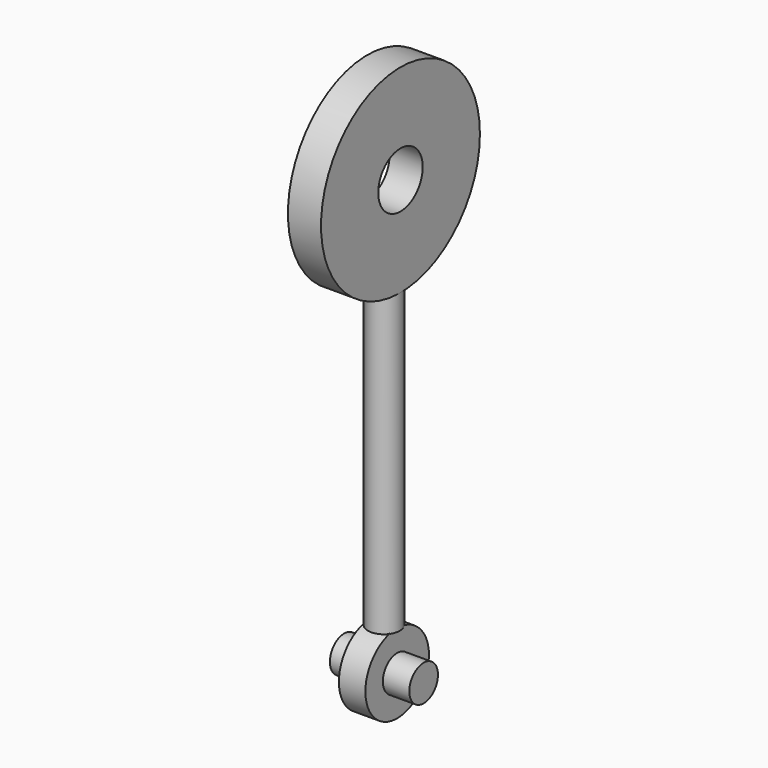
from build123d import *

# Parameters (mm, degrees)
F0_R          = 9.525
F0_R_2        = 2.667
F1_DEPTH      = 1.5875
F3_START      = -5.08
F2_R          = 1.5259148542
F3_DEPTH      = 33.02
F4_R          = 3.81
F5_DEPTH      = 1.27
F6_R          = 1.7164061496
F7_DEPTH      = 2.54
F7_DEPTH_BACK = 5.08


with BuildPart() as f1:
    # F0 (on Right) → F1 (new body, symmetric)
    with BuildSketch(Plane.YZ):
        Circle(F0_R)
        Circle(F0_R_2, mode=Mode.SUBTRACT)
    extrude(amount=F1_DEPTH, both=True)

    # F2 (on Top) → F3 (join)
    with BuildSketch(Plane.XY.offset(F3_START)):
        Circle(F2_R)
    extrude(amount=-F3_DEPTH)

    # F4 (on Right) → F5 (join, symmetric)
    with BuildSketch(Plane.YZ):
        with Locations((0, -41.7686875335)):
            Circle(F4_R)
    extrude(amount=F5_DEPTH, both=True)

    # F6 (on face) → F7 (join, two sides)
    with BuildSketch(Plane(origin=(-1.27, 0, 0), x_dir=(0, -1, 0), z_dir=(-1, 0, 0))) as f7_sk:
        with Locations((0, -41.7686875335)):
            Circle(F6_R)
    extrude(amount=F7_DEPTH)
    extrude(f7_sk.sketch, amount=-F7_DEPTH_BACK)


solid = f1.part
